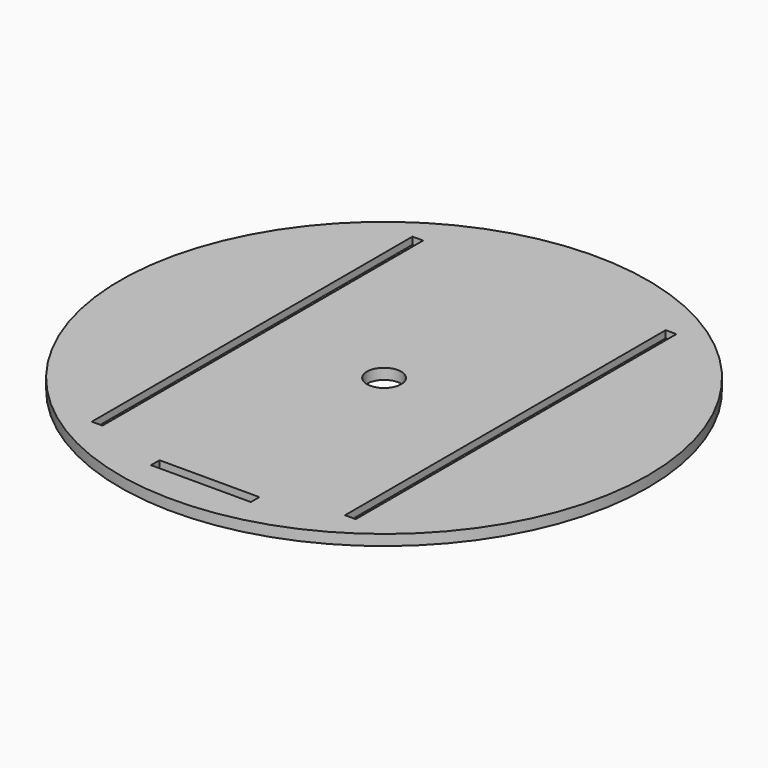
from build123d import *

# Parameters (mm, degrees)
F0_R     = 469.9
F0_R_2   = 30.48
F1_DEPTH = 19.05
F2_W     = 19.05
F2_H     = 713.560674
F2_W_2   = 177.8
F2_H_2   = 19.05
F3_DEPTH = 6.35


with BuildPart() as f1:
    # F0 (on Top) → F1 (new body)
    with BuildSketch(Plane.XY):
        with Locations((-57.046561, 15.925884)):
            Circle(F0_R)
        Polygon((-145.946561, -372.604453), (-57.046561, -372.604453), (31.853439, -372.604453), (31.853439, -391.654453), (-57.046561, -391.654453), (-145.946561, -391.654453), align=None, mode=Mode.SUBTRACT)
        Polygon((-291.996561, -330.694453), (-291.996561, 15.925884), (-291.996561, 362.546221), (-291.996561, 372.706221), (-272.946561, 372.706221), (-272.946561, 362.546221), (-272.946561, -330.694453), (-272.946561, -340.854453), (-291.996561, -340.854453), align=None, mode=Mode.SUBTRACT)
        with Locations((-57.046561, 15.925884)):
            Circle(F0_R_2, mode=Mode.SUBTRACT)
        Polygon((177.903439, -340.854453), (158.853439, -340.854453), (158.853439, -330.694453), (158.853439, 362.546221), (158.853439, 372.706221), (177.903439, 372.706221), (177.903439, 362.546221), (177.903439, 15.925884), (177.903439, -330.694453), align=None, mode=Mode.SUBTRACT)
    extrude(amount=F1_DEPTH)

    # F2 (on face) → F3 (join)
    with BuildSketch(Plane(origin=(0, 0, 0), x_dir=(1, 0, 0), z_dir=(0, 0, -1))):
        with Locations((168.378439, -15.925884)):
            Rectangle(F2_W, F2_H)
        with Locations((-282.471561, -15.925884)):
            Rectangle(F2_W, F2_H)
        with Locations((-57.046561, 382.129453)):
            Rectangle(F2_W_2, F2_H_2)
    extrude(amount=-F3_DEPTH)


solid = f1.part
